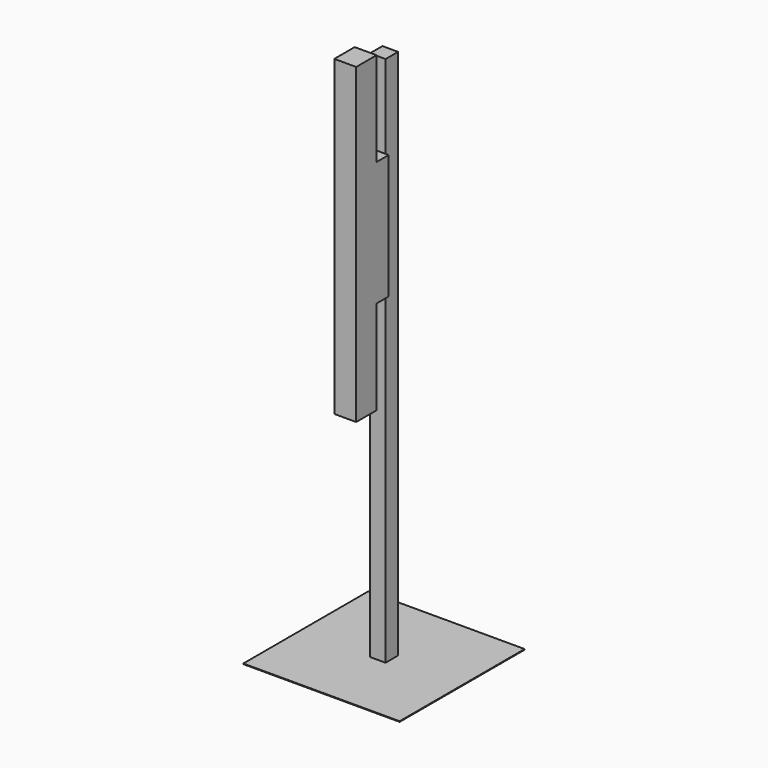
from build123d import *

# Parameters (mm, degrees)
F0_W     = 500
F0_H     = 500
F1_DEPTH = 2
F2_W     = 50
F2_H     = 50
F3_DEPTH = 1700
F4_W     = 70
F4_H     = 1000
F5_DEPTH = 130
F6_W     = 48.5175982118
F6_H     = 300.8179664612
F7_DEPTH = 285.001


with BuildPart() as f1:
    # F0 (on Top) → F1 (new body)
    with BuildSketch(Plane.XY):
        Rectangle(F0_W, F0_H)
    extrude(amount=F1_DEPTH)

    # F2 (on face) → F3 (join)
    with BuildSketch(Plane.XY.offset(2)):
        Rectangle(F2_W, F2_H)
    extrude(amount=F3_DEPTH)


with BuildPart() as f5:
    # F4 (on face) → F5 (new body)
    with BuildSketch(Plane.XZ.offset(25)):
        with Locations((0, 1235.9191179276)):
            Rectangle(F4_W, F4_H)
    extrude(amount=F5_DEPTH)

    # F6 (on face) → F7 (cut, through all)
    with BuildSketch(Plane.YZ.offset(35)):
        with Locations((-49.2587991059, 1585.510134697)):
            Rectangle(F6_W, F6_H)
        with Locations((-49.2587991059, 886.3281011581)):
            Rectangle(F6_W, F6_H)
    extrude(amount=-F7_DEPTH, mode=Mode.SUBTRACT)


solid = Compound([f1.part, f5.part])
